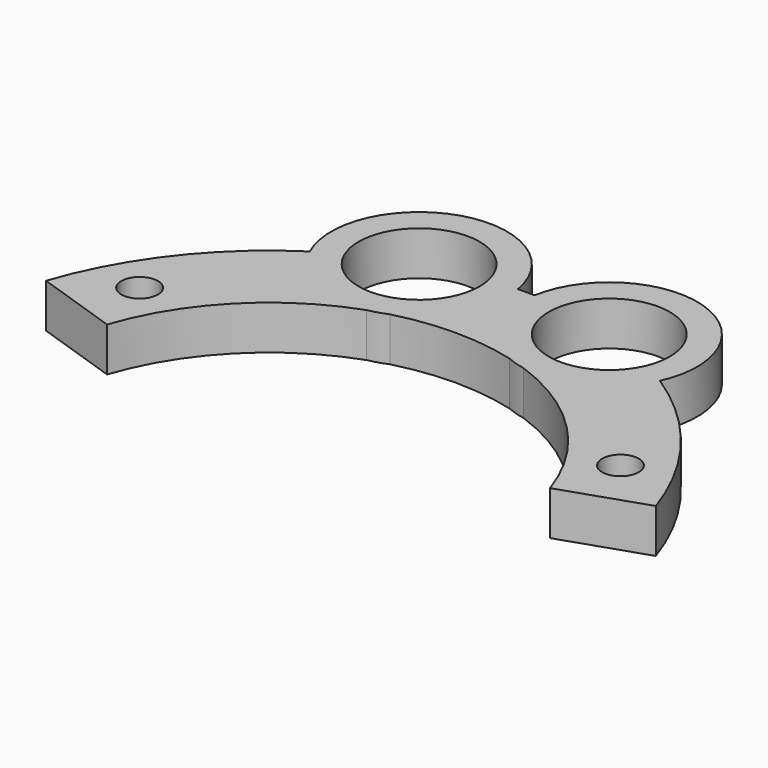
from build123d import *

# Parameters (mm, degrees)
F0_R     = 1.25
F1_DEPTH = 3
F2_R     = 6
F2_R_2   = 4.125
F3_DEPTH = 3
F4_DEPTH = 13.63532


with BuildPart() as f1:
    # F0 (on Top) → F1 (new body)
    with BuildSketch(Plane.XY):
        with BuildLine():
            Line((-20.787705, 6.985428), (-15.100235, 5.07423))
            ThreePointArc((-15.100235, 5.07423), (0, 15.93), (15.100235, 5.07423))
            Line((15.100235, 5.07423), (20.787705, 6.985428))
            ThreePointArc((20.787705, 6.985428), (0, 21.93), (-20.787705, 6.985428))
        make_face()
        with Locations((-16.393861, 9.465)):
            Circle(F0_R, mode=Mode.SUBTRACT)
        with Locations((16.393861, 9.465)):
            Circle(F0_R, mode=Mode.SUBTRACT)
    extrude(amount=F1_DEPTH)

    # F2 (on Top) → F3 (join)
    with BuildSketch(Plane.XY):
        with Locations((6.481612, 20.897385)):
            Circle(F2_R)
        with Locations((6.481612, 20.897385)):
            Circle(F2_R_2, mode=Mode.SUBTRACT)
        with Locations((-6.481612, 20.897385)):
            Circle(F2_R)
        with Locations((-6.481612, 20.897385)):
            Circle(F2_R_2, mode=Mode.SUBTRACT)
    extrude(amount=F3_DEPTH)

    # F2 (on Top) → F4 (cut)
    with BuildSketch(Plane.XY):
        with Locations((-6.481612, 20.897385)):
            Circle(F2_R_2)
        with Locations((6.481612, 20.897385)):
            Circle(F2_R_2)
    extrude(amount=F4_DEPTH, mode=Mode.SUBTRACT)


solid = f1.part
